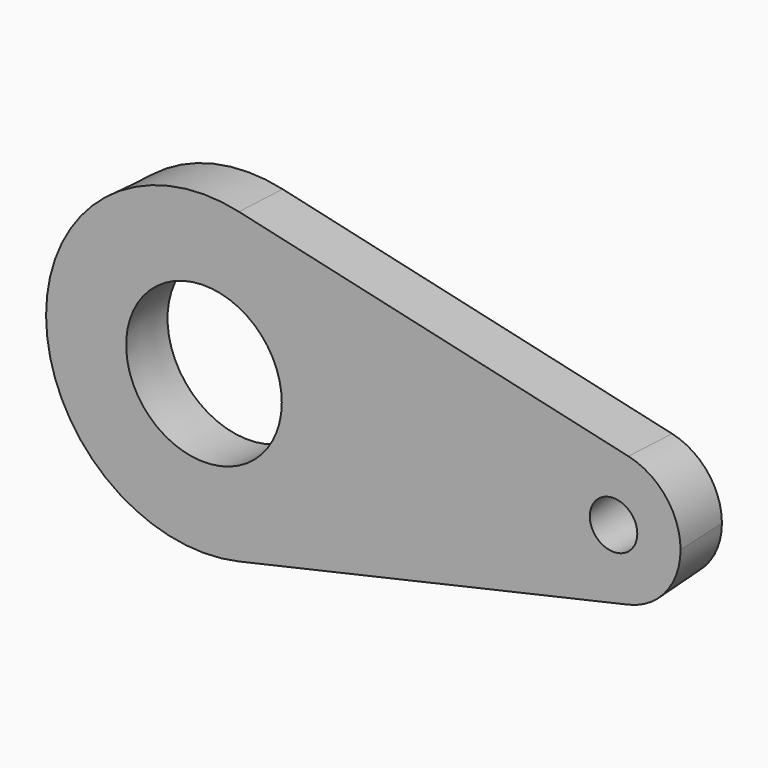
from build123d import *

# Parameters (mm, degrees)
F0_R     = 37.051709512
F0_R_2   = 12.2268566379
F1_DEPTH = 25.4
F1_TAPER = -3


with BuildPart() as f1:
    # F0 (on Front) → F1 (new body)
    with BuildSketch(Plane.XZ):
        with BuildLine():
            ThreePointArc((15.7890996592, -69.3800898661), (55.6163205643, -44.3814986765), (71.1540057753, 0))
            ThreePointArc((71.1540057753, 0), (55.6163205643, 44.3814986765), (15.7890996592, 69.3800898661))
            ThreePointArc((15.7890996592, 69.3800898661), (-71.1540057753, 0), (15.7890996592, -69.3800898661))
        make_face()
        Circle(F0_R, mode=Mode.SUBTRACT)
        with BuildLine():
            ThreePointArc((15.7890996592, 69.3800898661), (55.6163205643, 44.3814986765), (71.1540057753, 0))
            ThreePointArc((71.1540057753, 0), (55.6163205643, -44.3814986765), (15.7890996592, -69.3800898661))
            Line((15.7890996592, -69.3800898661), (194.573442896, -28.6934343959))
            ThreePointArc((194.573442896, -28.6934343959), (158.6164947747, 0), (194.573442896, 28.6934343959))
            Line((194.573442896, 28.6934343959), (15.7890996592, 69.3800898661))
        make_face()
        with BuildLine():
            ThreePointArc((217.4706358018, 0), (211.0447353434, 18.3547992389), (194.573442896, 28.6934343959))
            ThreePointArc((194.573442896, 28.6934343959), (158.6164947747, 0), (194.573442896, -28.6934343959))
            ThreePointArc((194.573442896, -28.6934343959), (211.0447353434, -18.3547992389), (217.4706358018, 0))
        make_face()
        with Locations((188.0435652882, 0)):
            Circle(F0_R_2, mode=Mode.SUBTRACT)
    extrude(amount=F1_DEPTH, taper=F1_TAPER)


solid = f1.part
